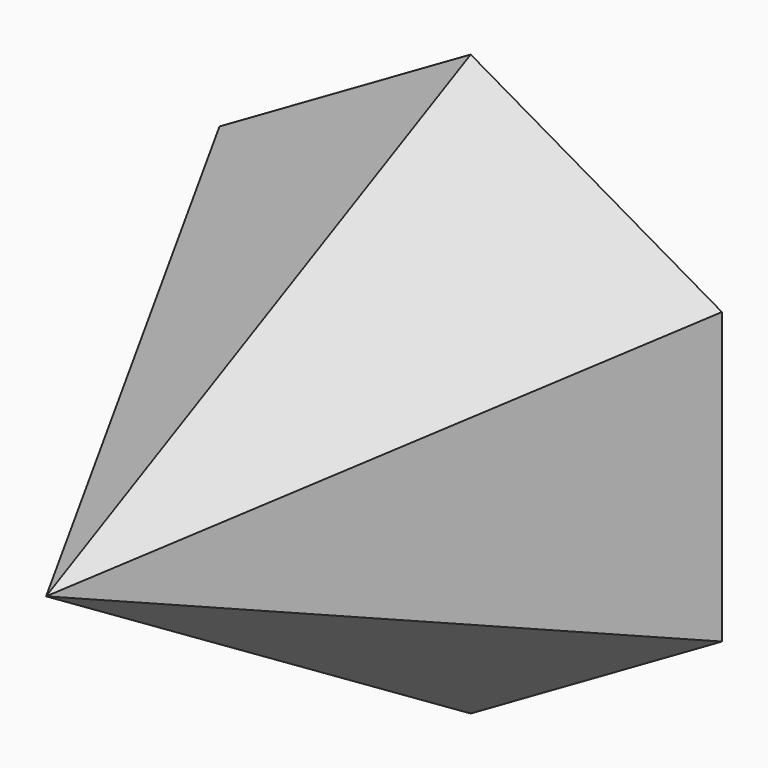
from build123d import *


with BuildPart() as f3:
    # F0 (on Front) → F3 section 0
    with BuildSketch(Plane.XZ, mode=Mode.PRIVATE) as f3_s0:
        Polygon((47.329712, 27.325822), (0, 54.651644), (-47.329712, 27.325822), (-47.329712, -27.325822), (0, -54.651644), (47.329712, -27.325822), align=None)
    loft([f3_s0.sketch, Vertex(0, -100, 5.433637)])


solid = f3.part
